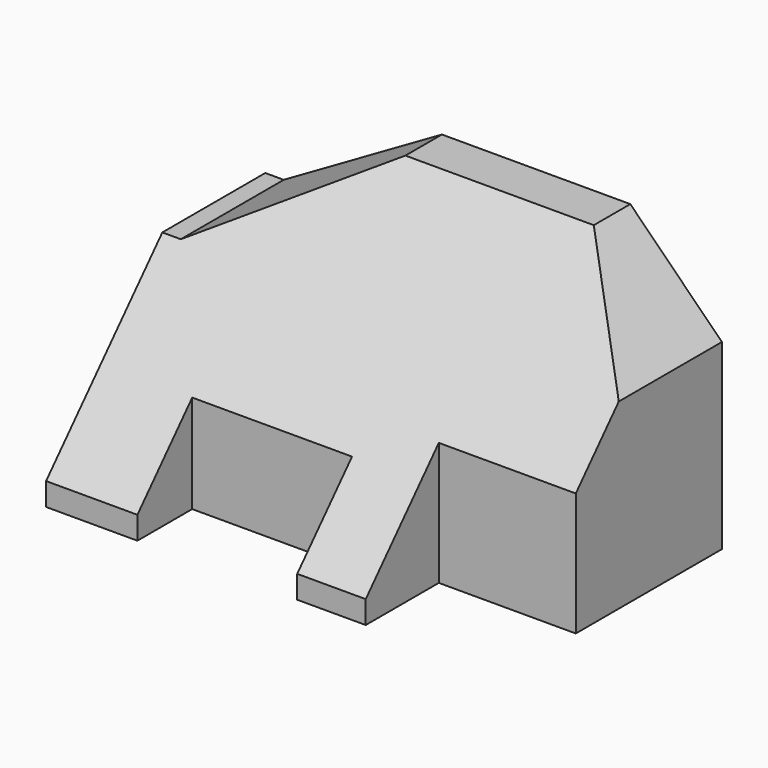
from build123d import *

# Parameters (mm, degrees)
F1_DEPTH = 60
F2_DEPTH = 20
F4_DEPTH = 100.001
F6_DEPTH = 60.001


with BuildPart() as f1:
    # F0 (on Top) → F1 (new body)
    with BuildSketch(Plane.XY):
        Polygon((0, 40), (0, 0), (20, 0), (20, 15), (55, 15), (55, 0), (70, 0), (70, 20), (100, 20), (100, 40), align=None)
    extrude(amount=F1_DEPTH)

    # F2 (add): a face of the model
    f2_faces = [f1.faces().sort_by_distance(p)[0] for p in [
        (50, 40, 30),
    ]]
    extrude(f2_faces, amount=F2_DEPTH)

    # F3 (on Right) → F4 (cut, through all)
    with BuildSketch(Plane.YZ):
        Polygon((50, 60), (20, 60), (0, 60), (0, 5), align=None)
    extrude(amount=F4_DEPTH, mode=Mode.SUBTRACT)

    # F5 (on Front) → F6 (cut, through all)
    with BuildSketch(Plane.XZ):
        Polygon((0, 60), (0, 40), (4.0449425578, 40), (38.6859587092, 60), align=None)
        Polygon((100, 60), (79.9438208342, 60), (100, 39.9438208342), align=None)
    extrude(amount=-F6_DEPTH, mode=Mode.SUBTRACT)


solid = f1.part
